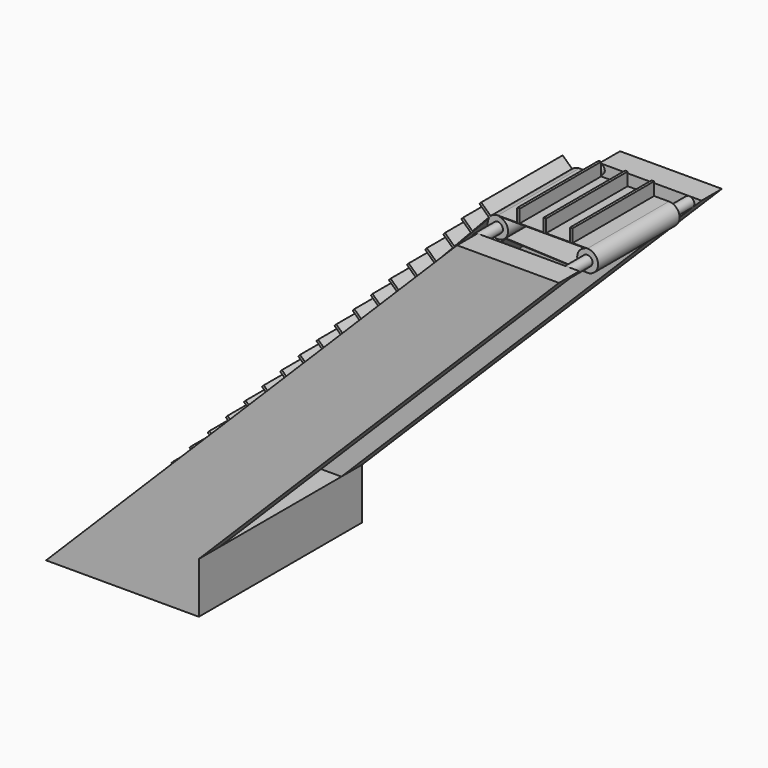
from build123d import *

# Parameters (mm, degrees)
F1_DEPTH  = 200
F2_W      = 300
F2_H      = 200
F3_DEPTH  = 228.6
F5_DEPTH  = 50
F7_DEPTH  = 50
F8_R      = 10
F9_DEPTH  = 150
F10_R     = 20
F11_DEPTH = 100
F12_R     = 10
F13_DEPTH = 150
F14_R     = 20
F15_DEPTH = 100
F17_DEPTH = 100
F18_W     = 200
F18_H     = 5
F19_DEPTH = 25.4
F20_W     = 5
F20_H     = 200
F21_DEPTH = 25.4


with BuildPart() as f1:
    # F0 (on Front) → F1 (new body, symmetric)
    with BuildSketch(Plane.XZ):
        Polygon((-300, 0), (0, 0), (0, 300), align=None)
    extrude(amount=F1_DEPTH, both=True)

    # F2 (on face) → F3 (cut)
    with BuildSketch(Plane.YZ):
        with Locations((0, 200)):
            Rectangle(F2_W, F2_H)
    extrude(amount=-F3_DEPTH, mode=Mode.SUBTRACT)

    # F4 (on face) → F5 (join, through all)
    with BuildSketch(Plane.XZ.offset(-150)):
        Polygon((0, 300), (0, 100), (707.1067811865, 807.1067811865), (507.1067811865, 807.1067811865), align=None)
    extrude(amount=-F5_DEPTH)

    # F6 (on face) → F7 (join, through all)
    with BuildSketch(Plane(origin=(0, -150, 0), x_dir=(-1, 0, 0), z_dir=(0, 1, 0))):
        Polygon((-707.1067811865, 807.1067811865), (0, 100), (0, 300), (-507.1067811865, 807.1067811865), align=None)
    extrude(amount=-F7_DEPTH)

    # F8 (on Front) → F9 (join, symmetric)
    with BuildSketch(Plane.XZ):
        with Locations((682.9646455628, 797.1067811865)):
            Circle(F8_R)
    extrude(amount=F9_DEPTH, both=True)

    # F10 (on Front) → F11 (join, symmetric)
    with BuildSketch(Plane.XZ):
        with Locations((682.9646455628, 797.1067811865)):
            Circle(F10_R)
    extrude(amount=F11_DEPTH, both=True)

    # F12 (on Front) → F13 (join, symmetric)
    with BuildSketch(Plane.XZ):
        with Locations((-100, 150)):
            Circle(F12_R)
        with Locations((507.1067811865, 797.1067811865)):
            Circle(F12_R)
    extrude(amount=F13_DEPTH, both=True)

    # F14 (on Front) → F15 (join, symmetric)
    with BuildSketch(Plane.XZ):
        with Locations((-100, 150)):
            Circle(F14_R)
        with Locations((507.1067811865, 797.1067811865)):
            Circle(F14_R)
    extrude(amount=F15_DEPTH, both=True)


with BuildPart() as f17:
    # F16 (on Front) → F17 (new body, symmetric)
    with BuildSketch(Plane.XZ):
        with BuildLine():
            Line((491.7917461106, 811.475138804), (-115.315035076, 164.3683576174))
            ThreePointArc((-115.315035076, 164.3683576174), (-114.3683576174, 134.684964924), (-84.684964924, 135.6316423826))
            Line((-84.684964924, 135.6316423826), (521.6261767947, 781.8903623862))
            ThreePointArc((521.6261767947, 781.8903623862), (522.5177253248, 782.5037268511), (523.5836828593, 782.690299312))
            Line((523.5836828593, 782.690299312), (682.0955753807, 776.1247718209))
            ThreePointArc((682.0955753807, 776.1247718209), (703.9601474225, 796.6721529993), (682.9646455628, 818.1067811865))
            Line((682.9646455628, 818.1067811865), (507.1067811865, 818.1067811865))
            ThreePointArc((507.1067811865, 818.1067811865), (498.7621874267, 816.3776855499), (491.7917461106, 811.475138804))
        make_face()
        with BuildLine():
            ThreePointArc((-85.4142523086, 136.3158498882), (-113.6841501118, 135.4142523086), (-114.5857476914, 163.6841501118))
            Line((-114.5857476914, 163.6841501118), (492.5210334951, 810.7909312984))
            ThreePointArc((492.5210334951, 810.7909312984), (499.1595490343, 815.4600234374), (507.1067811865, 817.1067811865))
            Line((507.1067811865, 817.1067811865), (682.9646455628, 817.1067811865))
            ThreePointArc((682.9646455628, 817.1067811865), (697.1067811865, 811.2489168103), (702.9646455628, 797.1067811865))
            ThreePointArc((702.9646455628, 797.1067811865), (696.8110581351, 782.6749809219), (682.1369596751, 777.1239151241))
            Line((682.1369596751, 777.1239151241), (523.1526744106, 783.7090090179))
            ThreePointArc((523.1526744106, 783.7090090179), (522.1988688728, 783.5652038774), (521.3674580584, 783.0761425521))
            Line((521.3674580584, 783.0761425521), (-85.4142523086, 136.3158498882))
        make_face(mode=Mode.SUBTRACT)
    extrude(amount=F17_DEPTH, both=True)

    # F18 (on face) → F19 (join)
    with BuildSketch(Plane(origin=(-143.3486293437, 0, 134.4877344489), x_dir=(0, -1, 0), z_dir=(-0.7292873846, 0, 0.6842075056))):
        with Locations((0, 43.4723571265)):
            Rectangle(F18_W, F18_H)
        with Locations((0, 95.4723571265)):
            Rectangle(F18_W, F18_H)
        with Locations((0, 147.4723571265)):
            Rectangle(F18_W, F18_H)
        with Locations((0, 199.4723571265)):
            Rectangle(F18_W, F18_H)
        with Locations((0, 251.4723571265)):
            Rectangle(F18_W, F18_H)
        with Locations((0, 303.4723571265)):
            Rectangle(F18_W, F18_H)
        with Locations((0, 355.4723571265)):
            Rectangle(F18_W, F18_H)
        with Locations((0, 407.4723571265)):
            Rectangle(F18_W, F18_H)
        with Locations((0, 459.4723571265)):
            Rectangle(F18_W, F18_H)
        with Locations((0, 511.4723571265)):
            Rectangle(F18_W, F18_H)
        with Locations((0, 563.4723571265)):
            Rectangle(F18_W, F18_H)
        with Locations((0, 615.4723571265)):
            Rectangle(F18_W, F18_H)
        with Locations((0, 667.4723571265)):
            Rectangle(F18_W, F18_H)
        with Locations((0, 719.4723571265)):
            Rectangle(F18_W, F18_H)
        with Locations((0, 771.4723571265)):
            Rectangle(F18_W, F18_H)
        with Locations((0, 823.4723571265)):
            Rectangle(F18_W, F18_H)
        with Locations((0, 875.4723571265)):
            Rectangle(F18_W, F18_H)
        with Locations((0, 927.4723571265)):
            Rectangle(F18_W, F18_H)
    extrude(amount=F19_DEPTH)

    # F20 (on face) → F21 (join)
    with BuildSketch(Plane.XY.offset(818.1067811865)):
        with Locations((547.4454373941, 0)):
            Rectangle(F20_W, F20_H)
        with Locations((599.4454373941, 0)):
            Rectangle(F20_W, F20_H)
        with Locations((651.4454373941, 0)):
            Rectangle(F20_W, F20_H)
    extrude(amount=F21_DEPTH)


solid = Compound([f1.part, f17.part])
